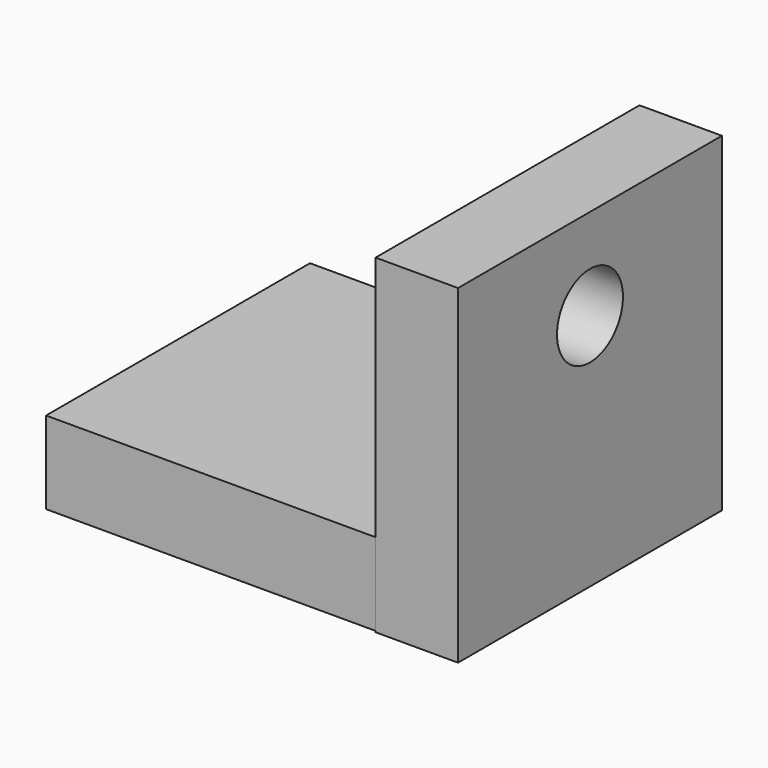
from build123d import *

# Parameters (mm, degrees)
F0_W     = 50.8
F0_H     = 50.8
F2_DEPTH = 12.7
F1_W     = 50.8
F1_H     = 12.7
F3_DEPTH = 50.8
F4_R     = 6.35
F5_DEPTH = 12.701


with BuildPart() as f2:
    # F0 (on Right) → F2 (new body)
    with BuildSketch(Plane.YZ):
        with Locations((3.236649, 6.020112)):
            Rectangle(F0_W, F0_H)
    extrude(amount=F2_DEPTH)

    # F1 (on Right) → F3 (join)
    with BuildSketch(Plane.YZ):
        with Locations((3.302505, -12.88737)):
            Rectangle(F1_W, F1_H)
    extrude(amount=-F3_DEPTH)

    # F4 (on Right) → F5 (cut, through all)
    with BuildSketch(Plane.YZ):
        with Locations((3.236649, 17.348448)):
            Circle(F4_R)
    extrude(amount=F5_DEPTH, mode=Mode.SUBTRACT)


solid = f2.part
